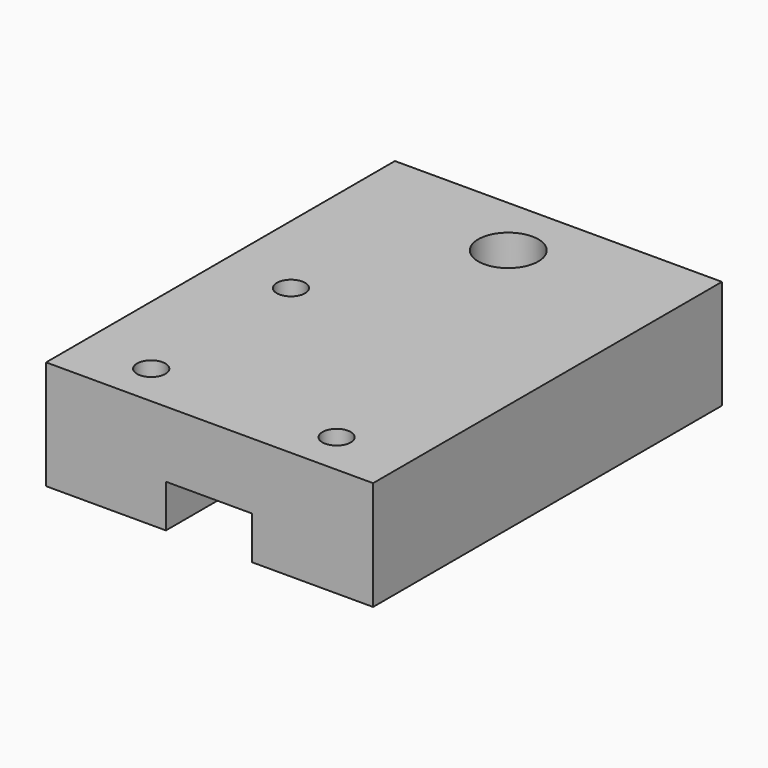
from build123d import *

# Parameters (mm, degrees)
F0_W     = 38.1
F0_H     = 50.8
F1_DEPTH = 12.7
F2_R     = 1.65
F2_R_2   = 3.5
F3_DEPTH = 12.701
F4_W     = 10
F4_H     = 5
F5_DEPTH = 50.801


with BuildPart() as f1:
    # F0 (on Top) → F1 (new body)
    with BuildSketch(Plane.XY):
        with Locations((19.05, 25.4)):
            Rectangle(F0_W, F0_H)
    extrude(amount=F1_DEPTH)

    # F2 (on face) → F3 (cut, through all)
    with BuildSketch(Plane.XY.offset(12.7)):
        with Locations((8.25, 5)):
            Circle(F2_R)
        with Locations((29.85, 5)):
            Circle(F2_R)
        with Locations((8.25, 25.35)):
            Circle(F2_R)
        with Locations((19.05, 43.5)):
            Circle(F2_R_2)
    extrude(amount=-F3_DEPTH, mode=Mode.SUBTRACT)

    # F4 (on face) → F5 (cut, through all)
    with BuildSketch(Plane.XZ):
        with Locations((18.962298, 2.5)):
            Rectangle(F4_W, F4_H)
    extrude(amount=-F5_DEPTH, mode=Mode.SUBTRACT)


solid = f1.part
